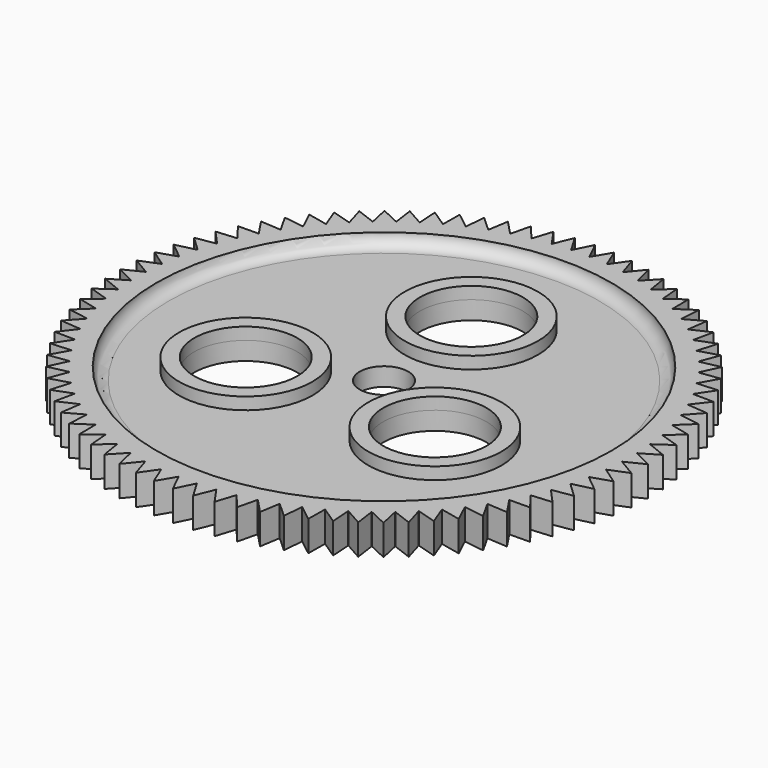
from build123d import *

# Parameters (mm, degrees)
F3_DEPTH = 5
F4_R     = 11
F4_R_2   = 8.5
F5_DEPTH = 2
F6_R     = 8.5
F7_DEPTH = 3


with BuildPart() as f1:
    # F0 (on Front) → F1 (revolve)
    with BuildSketch(Plane.XZ):
        with BuildLine():
            Line((4, 3), (4, 0))
            Line((4, 0), (40.5, 0))
            Line((40.5, 0), (40.5, 5))
            Line((40.5, 5), (37.5, 5))
            ThreePointArc((37.5, 5), (36.9142135624, 3.5857864376), (35.5, 3))
            Line((35.5, 3), (4, 3))
        make_face()
    revolve(axis=Axis((0, 0, 0.9011062668), (0, 0, 1)))

    # F2 (on Top) → F3 (join, through all)
    with BuildSketch(Plane.XY):
        with BuildLine():
            ThreePointArc((-1.5, 40.4722126897), (-0.7501286781, 40.4930525765), (0, 40.5))
            Line((0, 40.5), (0, 43.5))
            Line((0, 43.5), (-1.5, 40.4722126897))
        make_face()
        with BuildLine():
            ThreePointArc((0, 40.5), (0.7501286781, 40.4930525765), (1.5, 40.4722126897))
            Line((1.5, 40.4722126897), (0, 43.5))
            Line((0, 43.5), (0, 40.5))
        make_face()
        with BuildLine():
            Line((9.6796606271, -42.4093641799), (10.4683064353, -39.123708418))
            ThreePointArc((10.4683064353, -39.123708418), (9.0120978252, -39.4845804434), (7.5435226987, -39.7912712199))
            Line((7.5435226987, -39.7912712199), (9.6796606271, -42.4093641799))
        make_face()
        with BuildLine():
            Line((6.4833385787, -43.0141409408), (7.5153165358, -39.7966081138))
            ThreePointArc((7.5153165358, -39.7966081138), (6.0362117801, -40.0476484621), (4.5488240571, -40.2437349124))
            Line((4.5488240571, -40.2437349124), (6.4833385787, -43.0141409408))
        make_face()
        with BuildLine():
            Line((3.250759071, -43.3783651774), (4.5202979377, -40.2469490341))
            ThreePointArc((4.5202979377, -40.2469490341), (3.0265687903, -40.3867537858), (1.5286865462, -40.4711393149))
            Line((1.5286865462, -40.4711393149), (3.250759071, -43.3783651774))
        make_face()
        with BuildLine():
            Line((0, -43.5), (1.5, -40.4722126897))
            ThreePointArc((1.5, -40.4722126897), (0, -40.5), (-1.5, -40.4722126897))
            Line((-1.5, -40.4722126897), (0, -43.5))
        make_face()
        with BuildLine():
            Line((-3.250759071, -43.3783651774), (-1.5286865462, -40.4711393149))
            ThreePointArc((-1.5286865462, -40.4711393149), (-3.0265687903, -40.3867537858), (-4.5202979377, -40.2469490341))
            Line((-4.5202979377, -40.2469490341), (-3.250759071, -43.3783651774))
        make_face()
        with BuildLine():
            Line((-6.4833385787, -43.0141409408), (-4.5488240571, -40.2437349124))
            ThreePointArc((-4.5488240571, -40.2437349124), (-6.0362117801, -40.0476484621), (-7.5153165358, -39.7966081138))
            Line((-7.5153165358, -39.7966081138), (-6.4833385787, -43.0141409408))
        make_face()
        with BuildLine():
            Line((-9.6796606271, -42.4093641799), (-7.5435226987, -39.7912712199))
            ThreePointArc((-7.5435226987, -39.7912712199), (-9.0120978252, -39.4845804434), (-10.4683064353, -39.123708418))
            Line((-10.4683064353, -39.123708418), (-9.6796606271, -42.4093641799))
        make_face()
        with BuildLine():
            Line((-12.8218500869, -41.5674170517), (-10.4960349015, -39.1162785979))
            ThreePointArc((-10.4960349015, -39.1162785979), (-11.9375845636, -38.7006986343), (-13.3627533188, -38.2320130747))
            Line((-13.3627533188, -38.2320130747), (-12.8218500869, -41.5674170517))
        make_face()
        with BuildLine():
            Line((-15.8923345599, -40.493008066), (-13.3898490195, -38.2225318789))
            ThreePointArc((-13.3898490195, -38.2225318789), (-14.7963114868, -37.7003868201), (-16.1824702654, -37.1265088058))
            Line((-16.1824702654, -37.1265088058), (-15.8923345599, -40.493008066))
        make_face()
        with BuildLine():
            Line((-18.8739426516, -39.1921457538), (-16.2087816703, -37.1150292572))
            ThreePointArc((-16.2087816703, -37.1150292572), (-17.5722914343, -36.48923915), (-18.911688274, -35.8133780399))
            Line((-18.911688274, -35.8133780399), (-18.8739426516, -39.1921457538))
        make_face()
        with BuildLine():
            Line((-21.75, -37.6721050646), (-18.9370682392, -35.7999643366))
            ThreePointArc((-18.9370682392, -35.7999643366), (-20.25, -35.0740288533), (-21.5351444505, -34.2999643366))
            Line((-21.5351444505, -34.2999643366), (-21.75, -37.6721050646))
        make_face()
        with BuildLine():
            Line((-24.5044225258, -35.9413866827), (-21.5594510408, -34.2846914937))
            ThreePointArc((-21.5594510408, -34.2846914937), (-22.8144623516, -33.4626703598), (-24.0381673638, -32.5947313195))
            Line((-24.0381673638, -32.5947313195), (-24.5044225258, -35.9413866827))
        make_face()
        with BuildLine():
            Line((-27.1218063809, -34.0096694874), (-24.061264647, -32.5776847487))
            ThreePointArc((-24.061264647, -32.5776847487), (-25.2513369753, -31.66417504), (-26.4067590944, -30.7072153432))
            Line((-26.4067590944, -30.7072153432), (-27.1218063809, -34.0096694874))
        make_face()
        with BuildLine():
            Line((-29.587514093, -31.8877564246), (-26.4285179011, -30.6884903759))
            ThreePointArc((-26.4285179011, -30.6884903759), (-27.5469958797, -29.6886008091), (-28.6276735165, -28.6479721626))
            Line((-28.6276735165, -28.6479721626), (-29.587514093, -31.8877564246))
        make_face()
        with BuildLine():
            Line((-31.8877564246, -29.587514093), (-28.6479721626, -28.6276735165))
            ThreePointArc((-28.6479721626, -28.6276735165), (-29.6886008091, -27.5469958797), (-30.6884903759, -26.4285179011))
            Line((-30.6884903759, -26.4285179011), (-31.8877564246, -29.587514093))
        make_face()
        with BuildLine():
            ThreePointArc((-4.5202979377, 40.2469490341), (-3.0265687903, 40.3867537858), (-1.5286865462, 40.4711393149))
            Line((-1.5286865462, 40.4711393149), (-3.250759071, 43.3783651774))
            Line((-3.250759071, 43.3783651774), (-4.5202979377, 40.2469490341))
        make_face()
        with BuildLine():
            ThreePointArc((-7.5153165358, 39.7966081138), (-6.0362117801, 40.0476484621), (-4.5488240571, 40.2437349124))
            Line((-4.5488240571, 40.2437349124), (-6.4833385787, 43.0141409408))
            Line((-6.4833385787, 43.0141409408), (-7.5153165358, 39.7966081138))
        make_face()
        with BuildLine():
            ThreePointArc((-10.4683064353, 39.123708418), (-9.0120978252, 39.4845804434), (-7.5435226987, 39.7912712199))
            Line((-7.5435226987, 39.7912712199), (-9.6796606271, 42.4093641799))
            Line((-9.6796606271, 42.4093641799), (-10.4683064353, 39.123708418))
        make_face()
        with BuildLine():
            ThreePointArc((-13.3627533188, 38.2320130747), (-11.9375845636, 38.7006986343), (-10.4960349015, 39.1162785979))
            Line((-10.4960349015, 39.1162785979), (-12.8218500869, 41.5674170517))
            Line((-12.8218500869, 41.5674170517), (-13.3627533188, 38.2320130747))
        make_face()
        with BuildLine():
            ThreePointArc((-16.1824702654, 37.1265088058), (-14.7963114868, 37.7003868201), (-13.3898490195, 38.2225318789))
            Line((-13.3898490195, 38.2225318789), (-15.8923345599, 40.493008066))
            Line((-15.8923345599, 40.493008066), (-16.1824702654, 37.1265088058))
        make_face()
        with BuildLine():
            ThreePointArc((-18.911688274, 35.8133780399), (-17.5722914343, 36.48923915), (-16.2087816703, 37.1150292572))
            Line((-16.2087816703, 37.1150292572), (-18.8739426516, 39.1921457538))
            Line((-18.8739426516, 39.1921457538), (-18.911688274, 35.8133780399))
        make_face()
        with BuildLine():
            ThreePointArc((-21.5351444505, 34.2999643366), (-20.25, 35.0740288533), (-18.9370682392, 35.7999643366))
            Line((-18.9370682392, 35.7999643366), (-21.75, 37.6721050646))
            Line((-21.75, 37.6721050646), (-21.5351444505, 34.2999643366))
        make_face()
        with BuildLine():
            ThreePointArc((-24.0381673638, 32.5947313195), (-22.8144623516, 33.4626703598), (-21.5594510408, 34.2846914937))
            Line((-21.5594510408, 34.2846914937), (-24.5044225258, 35.9413866827))
            Line((-24.5044225258, 35.9413866827), (-24.0381673638, 32.5947313195))
        make_face()
        with BuildLine():
            ThreePointArc((-26.4067590944, 30.7072153432), (-25.2513369753, 31.66417504), (-24.061264647, 32.5776847487))
            Line((-24.061264647, 32.5776847487), (-27.1218063809, 34.0096694874))
            Line((-27.1218063809, 34.0096694874), (-26.4067590944, 30.7072153432))
        make_face()
        with BuildLine():
            ThreePointArc((-28.6276735165, 28.6479721626), (-27.5469958797, 29.6886008091), (-26.4285179011, 30.6884903759))
            Line((-26.4285179011, 30.6884903759), (-29.587514093, 31.8877564246))
            Line((-29.587514093, 31.8877564246), (-28.6276735165, 28.6479721626))
        make_face()
        with BuildLine():
            ThreePointArc((-30.6884903759, 26.4285179011), (-29.6886008091, 27.5469958797), (-28.6479721626, 28.6276735165))
            Line((-28.6479721626, 28.6276735165), (-31.8877564246, 29.587514093))
            Line((-31.8877564246, 29.587514093), (-30.6884903759, 26.4285179011))
        make_face()
        with BuildLine():
            ThreePointArc((-32.5776847487, 24.061264647), (-31.66417504, 25.2513369753), (-30.7072153432, 26.4067590944))
            Line((-30.7072153432, 26.4067590944), (-34.0096694874, 27.1218063809))
            Line((-34.0096694874, 27.1218063809), (-32.5776847487, 24.061264647))
        make_face()
        with BuildLine():
            ThreePointArc((-34.2846914937, 21.5594510408), (-33.4626703598, 22.8144623516), (-32.5947313195, 24.0381673638))
            Line((-32.5947313195, 24.0381673638), (-35.9413866827, 24.5044225258))
            Line((-35.9413866827, 24.5044225258), (-34.2846914937, 21.5594510408))
        make_face()
        with BuildLine():
            ThreePointArc((-35.7999643366, 18.9370682392), (-35.0740288533, 20.25), (-34.2999643366, 21.5351444505))
            Line((-34.2999643366, 21.5351444505), (-37.6721050646, 21.75))
            Line((-37.6721050646, 21.75), (-35.7999643366, 18.9370682392))
        make_face()
        with BuildLine():
            ThreePointArc((-40.4711393149, 1.5286865462), (-40.3867537858, 3.0265687903), (-40.2469490341, 4.5202979377))
            Line((-40.2469490341, 4.5202979377), (-43.3783651774, 3.250759071))
            Line((-43.3783651774, 3.250759071), (-40.4711393149, 1.5286865462))
        make_face()
        with BuildLine():
            ThreePointArc((-40.2437349124, 4.5488240571), (-40.0476484621, 6.0362117801), (-39.7966081138, 7.5153165358))
            Line((-39.7966081138, 7.5153165358), (-43.0141409408, 6.4833385787))
            Line((-43.0141409408, 6.4833385787), (-40.2437349124, 4.5488240571))
        make_face()
        with BuildLine():
            ThreePointArc((-39.7912712199, 7.5435226987), (-39.4845804434, 9.0120978252), (-39.123708418, 10.4683064353))
            Line((-39.123708418, 10.4683064353), (-42.4093641799, 9.6796606271))
            Line((-42.4093641799, 9.6796606271), (-39.7912712199, 7.5435226987))
        make_face()
        with BuildLine():
            ThreePointArc((-39.1162785979, 10.4960349015), (-38.7006986343, 11.9375845636), (-38.2320130747, 13.3627533188))
            Line((-38.2320130747, 13.3627533188), (-41.5674170517, 12.8218500869))
            Line((-41.5674170517, 12.8218500869), (-39.1162785979, 10.4960349015))
        make_face()
        with BuildLine():
            ThreePointArc((-38.2225318789, 13.3898490195), (-37.7003868201, 14.7963114868), (-37.1265088058, 16.1824702654))
            Line((-37.1265088058, 16.1824702654), (-40.493008066, 15.8923345599))
            Line((-40.493008066, 15.8923345599), (-38.2225318789, 13.3898490195))
        make_face()
        with BuildLine():
            ThreePointArc((-37.1150292572, 16.2087816703), (-36.48923915, 17.5722914343), (-35.8133780399, 18.911688274))
            Line((-35.8133780399, 18.911688274), (-39.1921457538, 18.8739426516))
            Line((-39.1921457538, 18.8739426516), (-37.1150292572, 16.2087816703))
        make_face()
        with BuildLine():
            Line((-43.5, 0), (-40.4722126897, -1.5))
            ThreePointArc((-40.4722126897, -1.5), (-40.5, 0), (-40.4722126897, 1.5))
            Line((-40.4722126897, 1.5), (-43.5, 0))
        make_face()
        with BuildLine():
            Line((-43.3783651774, -3.250759071), (-40.2469490341, -4.5202979377))
            ThreePointArc((-40.2469490341, -4.5202979377), (-40.3867537858, -3.0265687903), (-40.4711393149, -1.5286865462))
            Line((-40.4711393149, -1.5286865462), (-43.3783651774, -3.250759071))
        make_face()
        with BuildLine():
            Line((-43.0141409408, -6.4833385787), (-39.7966081138, -7.5153165358))
            ThreePointArc((-39.7966081138, -7.5153165358), (-40.0476484621, -6.0362117801), (-40.2437349124, -4.5488240571))
            Line((-40.2437349124, -4.5488240571), (-43.0141409408, -6.4833385787))
        make_face()
        with BuildLine():
            Line((-42.4093641799, -9.6796606271), (-39.123708418, -10.4683064353))
            ThreePointArc((-39.123708418, -10.4683064353), (-39.4845804434, -9.0120978252), (-39.7912712199, -7.5435226987))
            Line((-39.7912712199, -7.5435226987), (-42.4093641799, -9.6796606271))
        make_face()
        with BuildLine():
            Line((-41.5674170517, -12.8218500869), (-38.2320130747, -13.3627533188))
            ThreePointArc((-38.2320130747, -13.3627533188), (-38.7006986343, -11.9375845636), (-39.1162785979, -10.4960349015))
            Line((-39.1162785979, -10.4960349015), (-41.5674170517, -12.8218500869))
        make_face()
        with BuildLine():
            Line((-40.493008066, -15.8923345599), (-37.1265088058, -16.1824702654))
            ThreePointArc((-37.1265088058, -16.1824702654), (-37.7003868201, -14.7963114868), (-38.2225318789, -13.3898490195))
            Line((-38.2225318789, -13.3898490195), (-40.493008066, -15.8923345599))
        make_face()
        with BuildLine():
            Line((-39.1921457538, -18.8739426516), (-35.8133780399, -18.911688274))
            ThreePointArc((-35.8133780399, -18.911688274), (-36.48923915, -17.5722914343), (-37.1150292572, -16.2087816703))
            Line((-37.1150292572, -16.2087816703), (-39.1921457538, -18.8739426516))
        make_face()
        with BuildLine():
            Line((-37.6721050646, -21.75), (-34.2999643366, -21.5351444505))
            ThreePointArc((-34.2999643366, -21.5351444505), (-35.0740288533, -20.25), (-35.7999643366, -18.9370682392))
            Line((-35.7999643366, -18.9370682392), (-37.6721050646, -21.75))
        make_face()
        with BuildLine():
            Line((-35.9413866827, -24.5044225258), (-32.5947313195, -24.0381673638))
            ThreePointArc((-32.5947313195, -24.0381673638), (-33.4626703598, -22.8144623516), (-34.2846914937, -21.5594510408))
            Line((-34.2846914937, -21.5594510408), (-35.9413866827, -24.5044225258))
        make_face()
        with BuildLine():
            Line((-34.0096694874, -27.1218063809), (-30.7072153432, -26.4067590944))
            ThreePointArc((-30.7072153432, -26.4067590944), (-31.66417504, -25.2513369753), (-32.5776847487, -24.061264647))
            Line((-32.5776847487, -24.061264647), (-34.0096694874, -27.1218063809))
        make_face()
        with BuildLine():
            ThreePointArc((1.5286865462, 40.4711393149), (3.0265687903, 40.3867537858), (4.5202979377, 40.2469490341))
            Line((4.5202979377, 40.2469490341), (3.250759071, 43.3783651774))
            Line((3.250759071, 43.3783651774), (1.5286865462, 40.4711393149))
        make_face()
        with BuildLine():
            ThreePointArc((4.5488240571, 40.2437349124), (6.0362117801, 40.0476484621), (7.5153165358, 39.7966081138))
            Line((7.5153165358, 39.7966081138), (6.4833385787, 43.0141409408))
            Line((6.4833385787, 43.0141409408), (4.5488240571, 40.2437349124))
        make_face()
        with BuildLine():
            ThreePointArc((7.5435226987, 39.7912712199), (9.0120978252, 39.4845804434), (10.4683064353, 39.123708418))
            Line((10.4683064353, 39.123708418), (9.6796606271, 42.4093641799))
            Line((9.6796606271, 42.4093641799), (7.5435226987, 39.7912712199))
        make_face()
        with BuildLine():
            ThreePointArc((10.4960349015, 39.1162785979), (11.9375845636, 38.7006986343), (13.3627533188, 38.2320130747))
            Line((13.3627533188, 38.2320130746), (12.8218500869, 41.5674170517))
            Line((12.8218500869, 41.5674170517), (10.4960349015, 39.1162785979))
        make_face()
        with BuildLine():
            ThreePointArc((13.3898490195, 38.2225318789), (14.7963114868, 37.7003868201), (16.1824702654, 37.1265088058))
            Line((16.1824702654, 37.1265088058), (15.8923345599, 40.493008066))
            Line((15.8923345599, 40.493008066), (13.3898490195, 38.2225318789))
        make_face()
        with BuildLine():
            ThreePointArc((16.2087816703, 37.1150292572), (17.5722914343, 36.48923915), (18.911688274, 35.8133780399))
            Line((18.911688274, 35.8133780399), (18.8739426516, 39.1921457538))
            Line((18.8739426516, 39.1921457538), (16.2087816703, 37.1150292572))
        make_face()
        with BuildLine():
            ThreePointArc((18.9370682392, 35.7999643366), (20.25, 35.0740288533), (21.5351444505, 34.2999643366))
            Line((21.5351444505, 34.2999643366), (21.75, 37.6721050646))
            Line((21.75, 37.6721050646), (18.9370682392, 35.7999643366))
        make_face()
        with BuildLine():
            ThreePointArc((21.5594510408, 34.2846914937), (22.8144623516, 33.4626703598), (24.0381673638, 32.5947313195))
            Line((24.0381673638, 32.5947313195), (24.5044225258, 35.9413866827))
            Line((24.5044225258, 35.9413866827), (21.5594510408, 34.2846914937))
        make_face()
        with BuildLine():
            ThreePointArc((24.061264647, 32.5776847487), (25.2513369753, 31.66417504), (26.4067590944, 30.7072153432))
            Line((26.4067590944, 30.7072153432), (27.1218063809, 34.0096694874))
            Line((27.1218063809, 34.0096694874), (24.061264647, 32.5776847487))
        make_face()
        with BuildLine():
            ThreePointArc((26.4285179011, 30.6884903759), (27.5469958797, 29.6886008091), (28.6276735165, 28.6479721626))
            Line((28.6276735165, 28.6479721626), (29.587514093, 31.8877564246))
            Line((29.587514093, 31.8877564246), (26.4285179011, 30.6884903759))
        make_face()
        with BuildLine():
            ThreePointArc((28.6479721626, 28.6276735165), (29.6886008091, 27.5469958797), (30.6884903759, 26.4285179011))
            Line((30.6884903759, 26.4285179011), (31.8877564246, 29.587514093))
            Line((31.8877564246, 29.587514093), (28.6479721626, 28.6276735165))
        make_face()
        with BuildLine():
            ThreePointArc((30.7072153432, 26.4067590944), (31.66417504, 25.2513369753), (32.5776847487, 24.061264647))
            Line((32.5776847487, 24.061264647), (34.0096694874, 27.1218063809))
            Line((34.0096694874, 27.1218063809), (30.7072153432, 26.4067590944))
        make_face()
        with BuildLine():
            ThreePointArc((32.5947313195, 24.0381673638), (33.4626703598, 22.8144623516), (34.2846914937, 21.5594510408))
            Line((34.2846914937, 21.5594510408), (35.9413866827, 24.5044225258))
            Line((35.9413866827, 24.5044225258), (32.5947313195, 24.0381673638))
        make_face()
        with BuildLine():
            ThreePointArc((34.2999643366, 21.5351444505), (35.0740288533, 20.25), (35.7999643366, 18.9370682392))
            Line((35.7999643366, 18.9370682392), (37.6721050646, 21.75))
            Line((37.6721050646, 21.75), (34.2999643366, 21.5351444505))
        make_face()
        with BuildLine():
            ThreePointArc((35.8133780399, 18.911688274), (36.48923915, 17.5722914343), (37.1150292572, 16.2087816703))
            Line((37.1150292572, 16.2087816703), (39.1921457538, 18.8739426516))
            Line((39.1921457538, 18.8739426516), (35.8133780399, 18.911688274))
        make_face()
        with BuildLine():
            ThreePointArc((37.1265088058, 16.1824702654), (37.7003868201, 14.7963114868), (38.2225318789, 13.3898490195))
            Line((38.2225318789, 13.3898490195), (40.493008066, 15.8923345599))
            Line((40.493008066, 15.8923345599), (37.1265088058, 16.1824702654))
        make_face()
        with BuildLine():
            Line((12.8218500869, -41.5674170517), (13.3627533188, -38.2320130747))
            ThreePointArc((13.3627533188, -38.2320130747), (11.9375845636, -38.7006986343), (10.4960349015, -39.1162785979))
            Line((10.4960349015, -39.1162785979), (12.8218500869, -41.5674170517))
        make_face()
        with BuildLine():
            Line((15.8923345599, -40.493008066), (16.1824702654, -37.1265088058))
            ThreePointArc((16.1824702654, -37.1265088058), (14.7963114868, -37.7003868201), (13.3898490195, -38.2225318789))
            Line((13.3898490195, -38.2225318789), (15.8923345599, -40.493008066))
        make_face()
        with BuildLine():
            Line((18.8739426516, -39.1921457538), (18.911688274, -35.8133780399))
            ThreePointArc((18.911688274, -35.8133780399), (17.5722914343, -36.48923915), (16.2087816703, -37.1150292572))
            Line((16.2087816703, -37.1150292572), (18.8739426516, -39.1921457538))
        make_face()
        with BuildLine():
            Line((21.75, -37.6721050646), (21.5351444505, -34.2999643366))
            ThreePointArc((21.5351444505, -34.2999643366), (20.25, -35.0740288533), (18.9370682392, -35.7999643366))
            Line((18.9370682392, -35.7999643366), (21.75, -37.6721050646))
        make_face()
        with BuildLine():
            Line((24.5044225258, -35.9413866827), (24.0381673638, -32.5947313195))
            ThreePointArc((24.0381673638, -32.5947313195), (22.8144623516, -33.4626703598), (21.5594510408, -34.2846914937))
            Line((21.5594510408, -34.2846914937), (24.5044225258, -35.9413866827))
        make_face()
        with BuildLine():
            Line((27.1218063809, -34.0096694874), (26.4067590944, -30.7072153432))
            ThreePointArc((26.4067590944, -30.7072153432), (25.2513369753, -31.66417504), (24.061264647, -32.5776847487))
            Line((24.061264647, -32.5776847487), (27.1218063809, -34.0096694874))
        make_face()
        with BuildLine():
            Line((29.587514093, -31.8877564246), (28.6276735165, -28.6479721626))
            ThreePointArc((28.6276735165, -28.6479721626), (27.5469958797, -29.6886008091), (26.4285179011, -30.6884903759))
            Line((26.4285179011, -30.6884903759), (29.587514093, -31.8877564246))
        make_face()
        with BuildLine():
            Line((31.8877564246, -29.587514093), (30.6884903759, -26.4285179011))
            ThreePointArc((30.6884903759, -26.4285179011), (29.6886008091, -27.5469958797), (28.6479721626, -28.6276735165))
            Line((28.6479721626, -28.6276735165), (31.8877564246, -29.587514093))
        make_face()
        with BuildLine():
            Line((34.0096694874, -27.1218063809), (32.5776847487, -24.061264647))
            ThreePointArc((32.5776847487, -24.061264647), (31.66417504, -25.2513369753), (30.7072153432, -26.4067590944))
            Line((30.7072153432, -26.4067590944), (34.0096694874, -27.1218063809))
        make_face()
        with BuildLine():
            Line((35.9413866827, -24.5044225258), (34.2846914937, -21.5594510408))
            ThreePointArc((34.2846914937, -21.5594510408), (33.4626703598, -22.8144623516), (32.5947313195, -24.0381673638))
            Line((32.5947313195, -24.0381673638), (35.9413866827, -24.5044225258))
        make_face()
        with BuildLine():
            Line((37.6721050646, -21.75), (35.7999643366, -18.9370682392))
            ThreePointArc((35.7999643366, -18.9370682392), (35.0740288533, -20.25), (34.2999643366, -21.5351444505))
            Line((34.2999643366, -21.5351444505), (37.6721050646, -21.75))
        make_face()
        with BuildLine():
            Line((39.1921457538, -18.8739426516), (37.1150292572, -16.2087816703))
            ThreePointArc((37.1150292572, -16.2087816703), (36.48923915, -17.5722914343), (35.8133780399, -18.911688274))
            Line((35.8133780399, -18.911688274), (39.1921457538, -18.8739426516))
        make_face()
        with BuildLine():
            Line((40.493008066, -15.8923345599), (38.2225318789, -13.3898490195))
            ThreePointArc((38.2225318789, -13.3898490195), (37.7003868201, -14.7963114868), (37.1265088058, -16.1824702654))
            Line((37.1265088058, -16.1824702654), (40.493008066, -15.8923345599))
        make_face()
        with BuildLine():
            Line((41.5674170517, -12.8218500869), (39.1162785979, -10.4960349015))
            ThreePointArc((39.1162785979, -10.4960349015), (38.7006986343, -11.9375845636), (38.2320130747, -13.3627533188))
            Line((38.2320130746, -13.3627533188), (41.5674170517, -12.8218500869))
        make_face()
        with BuildLine():
            Line((42.4093641799, -9.6796606271), (39.7912712199, -7.5435226987))
            ThreePointArc((39.7912712199, -7.5435226987), (39.4845804434, -9.0120978252), (39.123708418, -10.4683064353))
            Line((39.123708418, -10.4683064353), (42.4093641799, -9.6796606271))
        make_face()
        with BuildLine():
            ThreePointArc((40.4722126897, 1.5), (40.4930525765, 0.7501286781), (40.5, 0))
            ThreePointArc((40.5, 0), (40.4930525765, -0.7501286781), (40.4722126897, -1.5))
            Line((40.4722126897, -1.5), (43.5, 0))
            Line((43.5, 0), (40.4722126897, 1.5))
        make_face()
        with BuildLine():
            ThreePointArc((40.2469490341, 4.5202979377), (40.3867537858, 3.0265687903), (40.4711393149, 1.5286865462))
            Line((40.4711393149, 1.5286865462), (43.3783651774, 3.250759071))
            Line((43.3783651774, 3.250759071), (40.2469490341, 4.5202979377))
        make_face()
        with BuildLine():
            ThreePointArc((39.7966081138, 7.5153165358), (40.0476484621, 6.0362117801), (40.2437349124, 4.5488240571))
            Line((40.2437349124, 4.5488240571), (43.0141409408, 6.4833385787))
            Line((43.0141409408, 6.4833385787), (39.7966081138, 7.5153165358))
        make_face()
        with BuildLine():
            ThreePointArc((39.123708418, 10.4683064353), (39.4845804434, 9.0120978252), (39.7912712199, 7.5435226987))
            Line((39.7912712199, 7.5435226987), (42.4093641799, 9.6796606271))
            Line((42.4093641799, 9.6796606271), (39.123708418, 10.4683064353))
        make_face()
        with BuildLine():
            ThreePointArc((38.2320130747, 13.3627533188), (38.7006986343, 11.9375845636), (39.1162785979, 10.4960349015))
            Line((39.1162785979, 10.4960349015), (41.5674170517, 12.8218500869))
            Line((41.5674170517, 12.8218500869), (38.2320130747, 13.3627533188))
        make_face()
        with BuildLine():
            Line((43.0141409408, -6.4833385787), (40.2437349124, -4.5488240571))
            ThreePointArc((40.2437349124, -4.5488240571), (40.0476484621, -6.0362117801), (39.7966081138, -7.5153165358))
            Line((39.7966081138, -7.5153165358), (43.0141409408, -6.4833385787))
        make_face()
        with BuildLine():
            Line((43.3783651774, -3.250759071), (40.4711393149, -1.5286865462))
            ThreePointArc((40.4711393149, -1.5286865462), (40.3867537858, -3.0265687903), (40.2469490341, -4.5202979377))
            Line((40.2469490341, -4.5202979377), (43.3783651774, -3.250759071))
        make_face()
    extrude(amount=F3_DEPTH)

    # F4 (on face) → F5 (join)
    with BuildSketch(Plane.XY.offset(3)):
        with Locations((0, 18)):
            Circle(F4_R)
        with Locations((0, 18)):
            Circle(F4_R_2, mode=Mode.SUBTRACT)
        with Locations((-15.5884572681, -9)):
            Circle(F4_R)
        with Locations((-15.5884572681, -9)):
            Circle(F4_R_2, mode=Mode.SUBTRACT)
        with Locations((15.5884572681, -9)):
            Circle(F4_R)
        with Locations((15.5884572681, -9)):
            Circle(F4_R_2, mode=Mode.SUBTRACT)
    extrude(amount=F5_DEPTH)

    # F6 (on face) → F7 (cut, through all)
    with BuildSketch(Plane.XY.offset(3)):
        with Locations((0, 18)):
            Circle(F6_R)
        with Locations((-15.5884572681, -9)):
            Circle(F6_R)
        with Locations((15.5884572681, -9)):
            Circle(F6_R)
    extrude(amount=-F7_DEPTH, mode=Mode.SUBTRACT)


solid = f1.part
